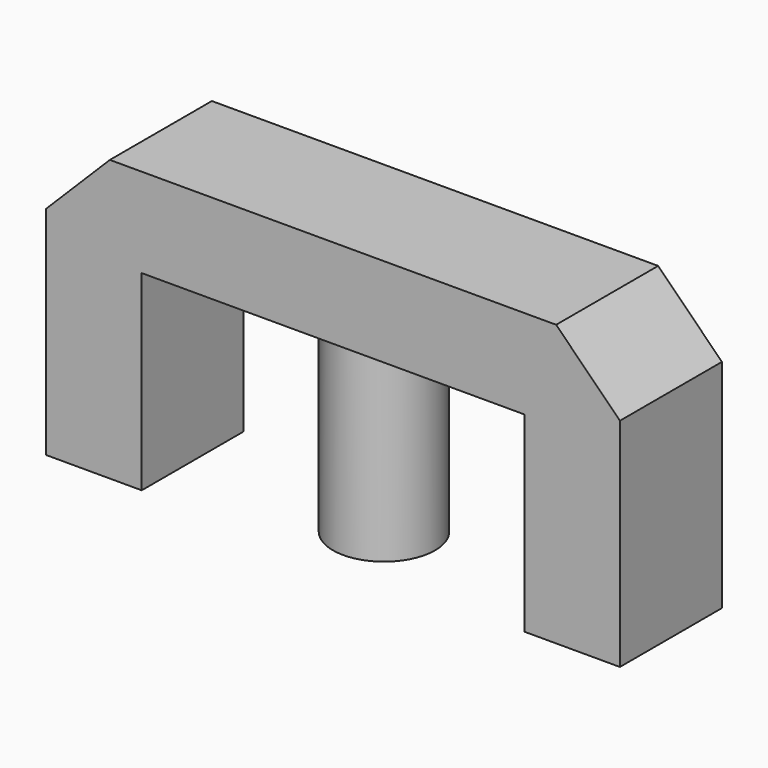
from build123d import *

# Parameters (mm, degrees)
F0_W     = 45
F0_H     = 22
F1_DEPTH = 10
F2_W     = 15
F2_H     = 15
F3_DEPTH = 25
F4_SIZE  = 5
F5_R     = 4
F6_DEPTH = 15


with BuildPart() as f1:
    # F0 (on Front) → F1 (new body)
    with BuildSketch(Plane.XZ):
        with Locations((2.586208, 0)):
            Rectangle(F0_W, F0_H)
    extrude(amount=F1_DEPTH)

    # F2 (on face) → F3 (cut)
    with BuildSketch(Plane.XZ.offset(10)):
        with Locations((-4.913792, -3.5)):
            Rectangle(F2_W, F2_H)
        with Locations((10.086208, -3.5)):
            Rectangle(F2_W, F2_H)
    extrude(amount=-F3_DEPTH, mode=Mode.SUBTRACT)

    # F4
    f4_edges = [f1.edges().sort_by_distance(p)[0] for p in [
        (-19.913792, -5, 11),
        (25.086208, -5, 11),
    ]]
    chamfer(f4_edges, length=F4_SIZE)

    # F5 (on face) → F6 (join, through all)
    with BuildSketch(Plane(origin=(0, 0, 4), x_dir=(1, 0, 0), z_dir=(0, 0, -1))):
        with Locations((2.586208, 5)):
            Circle(F5_R)
    extrude(amount=F6_DEPTH)


solid = f1.part
